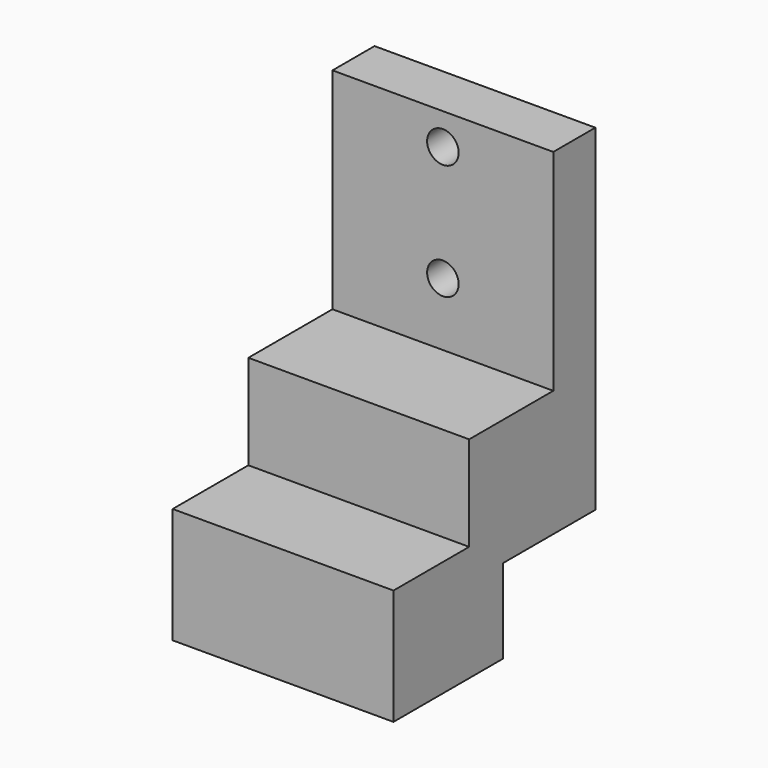
from build123d import *

# Parameters (mm, degrees)
F1_DEPTH = 33.3375
F2_R     = 4.7625
F3_DEPTH = 15.876


with BuildPart() as f1:
    # F0 (on Right) → F1 (new body, symmetric)
    with BuildSketch(Plane.YZ):
        Polygon((-41.275, 0), (0, 0), (0, 25.4), (34.925, 25.4), (34.925, 127), (19.05, 127), (19.05, 63.5), (-12.7, 63.5), (-12.7, 34.925), (-41.275, 34.925), align=None)
    extrude(amount=F1_DEPTH, both=True)

    # F2 (on face) → F3 (cut, through all)
    with BuildSketch(Plane.XZ.offset(-19.05)):
        with Locations((0, 117.475)):
            Circle(F2_R)
        with Locations((0, 82.55)):
            Circle(F2_R)
    extrude(amount=-F3_DEPTH, mode=Mode.SUBTRACT)


solid = f1.part
